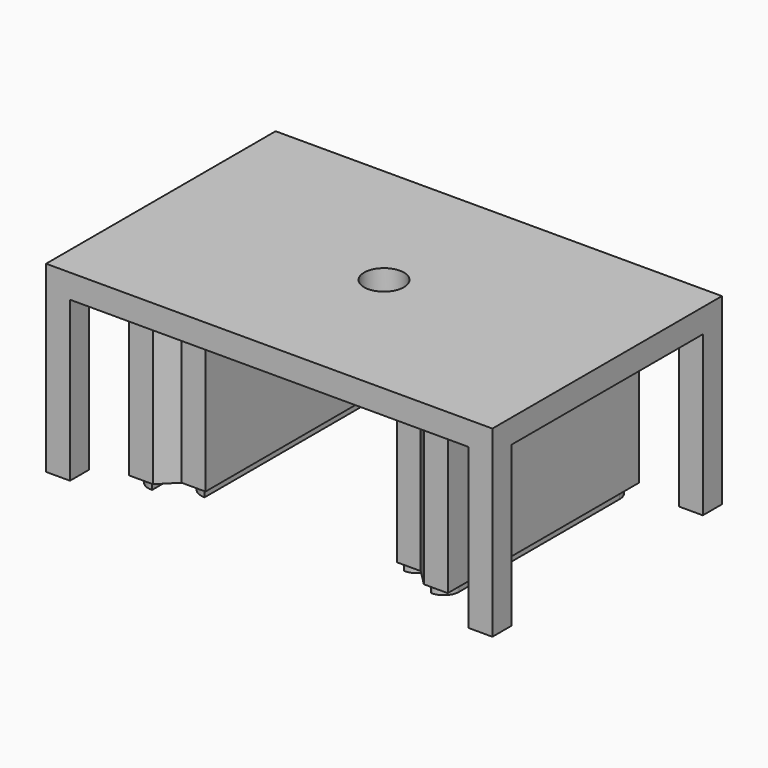
from build123d import *

# Parameters (mm, degrees)
SKETCH011_W     = 3
SKETCH011_H     = 9
SKETCH012_W     = 3
SKETCH012_H     = 3
SKETCH_W        = 70
SKETCH_H        = 50
PAD_DEPTH       = 30
POCKET_DEPTH    = 20
SKETCH002_W     = 3
SKETCH002_H     = 30
PAD001_DEPTH    = 19
SKETCH003_W     = 3
SKETCH003_H     = 26
PAD002_DEPTH    = 19
SKETCH004_W     = 2
SKETCH004_H     = 29
PAD003_DEPTH    = 1
SKETCH005_W     = 2
SKETCH005_H     = 25
PAD004_DEPTH    = 1
FILLET_R        = 1.9
SKETCH006_R     = 2.5
POCKET001_DEPTH = 12
SKETCH007_W     = 2
SKETCH007_H     = 2
SKETCH009_W     = 80
SKETCH009_H     = 80
SKETCH009_W_2   = 56
SKETCH009_H_2   = 36
POCKET002_DEPTH = 40
SKETCH010_W     = 80
SKETCH010_H     = 80
POCKET003_DEPTH = 7
SKETCH013_W     = 2
SKETCH013_H     = 2
POCKET004_DEPTH = 5
FILLET001_R     = 2
PAD005_DEPTH    = 19


with BuildPart() as loft_body:
    # Sketch011 (on Face42 of Pocket003) → Loft section 0
    with BuildSketch(Plane(origin=(0, 13, 0), x_dir=(-1, 0, 0), z_dir=(0, 1, 0))):
        with Locations((-13.5, 10.5)):
            Rectangle(SKETCH011_W, SKETCH011_H)
    # Sketch012 (on Face36 of Pocket003) → Loft section 1
    with BuildSketch(Plane(origin=(0, 18, 0), x_dir=(-1, 0, 0), z_dir=(0, 1, 0))):
        with Locations((-13.5, 10.5)):
            Rectangle(SKETCH012_W, SKETCH012_H)
    loft()


with BuildPart() as body001:
    # Sketch → Pad (new body)
    with BuildSketch(Plane.XY):
        Rectangle(SKETCH_W, SKETCH_H)
    extrude(amount=PAD_DEPTH)

    # Sketch001 (on Face5 of Pad) → Pocket (cut)
    with BuildSketch(Plane(origin=(0, 0, 0), x_dir=(1, 0, 0), z_dir=(0, 0, -1))):
        Polygon((-35, 15), (-25, 15), (-25, 25), (25, 25), (25, 15), (35, 15), (35, -15), (25, -15), (25, -25), (-25, -25), (-25, -15), (-35, -15), align=None)
    extrude(amount=-POCKET_DEPTH, mode=Mode.SUBTRACT)

    # Sketch002 (on Face4 of Pocket) → Pad001 (join)
    with BuildSketch(Plane(origin=(0, 0, 20), x_dir=(1, 0, 0), z_dir=(0, 0, -1))):
        with Locations((-18.5, 0)):
            Rectangle(SKETCH002_W, SKETCH002_H)
        with Locations((18.5, 0)):
            Rectangle(SKETCH002_W, SKETCH002_H)
    extrude(amount=PAD001_DEPTH)

    # Sketch003 (on Face4 of Pad001) → Pad002 (join)
    with BuildSketch(Plane(origin=(0, 0, 20), x_dir=(1, 0, 0), z_dir=(0, 0, -1))):
        with Locations((13.5, 0)):
            Rectangle(SKETCH003_W, SKETCH003_H)
        with Locations((-13.5, 0)):
            Rectangle(SKETCH003_W, SKETCH003_H)
    extrude(amount=PAD002_DEPTH)

    # Sketch004 (on Face36 of Pad002) → Pad003 (join)
    with BuildSketch(Plane(origin=(0, 0, 1), x_dir=(1, 0, 0), z_dir=(0, 0, -1))):
        with Locations((18.5, 0)):
            Rectangle(SKETCH004_W, SKETCH004_H)
        with Locations((-18.5, 0)):
            Rectangle(SKETCH004_W, SKETCH004_H)
    extrude(amount=PAD003_DEPTH)

    # Sketch005 (on Face37 of Pad003) → Pad004 (join)
    with BuildSketch(Plane(origin=(0, 0, 1), x_dir=(1, 0, 0), z_dir=(0, 0, -1))):
        with Locations((-13.5, 0)):
            Rectangle(SKETCH005_W, SKETCH005_H)
        with Locations((13.5, 0)):
            Rectangle(SKETCH005_W, SKETCH005_H)
    extrude(amount=PAD004_DEPTH)

    # Fillet
    fillet_edges = [body001.edges().sort_by_distance(p)[0] for p in [
        (-19.5, 14.5, 0.5),
        (-14.5, 12.5, 0.5),
        (-19.5, -14.5, 0.5),
        (-14.5, -12.5, 0.5),
        (19.5, 14.5, 0.5),
        (14.5, 12.5, 0.5),
        (14.5, -12.5, 0.5),
        (19.5, -14.5, 0.5),
    ]]
    fillet(fillet_edges, radius=FILLET_R)

    # Sketch006 (on Face13 of Fillet) → Pocket001 (cut)
    with BuildSketch(Plane(origin=(0, 0, 20), x_dir=(1, 0, 0), z_dir=(0, 0, -1))):
        Circle(SKETCH006_R)
    extrude(amount=-POCKET001_DEPTH, mode=Mode.SUBTRACT)

    # Sketch007 (on Face13 of Pocket001) → Revolution (revolve)
    with BuildSketch(Plane(origin=(0, 0, 20), x_dir=(1, 0, 0), z_dir=(0, 0, -1))):
        with Locations((-7, 3)):
            Rectangle(SKETCH007_W, SKETCH007_H)
        with Locations((7, 3)):
            Rectangle(SKETCH007_W, SKETCH007_H)
    revolve(axis=Axis((-10, 0, 20), (1, 0, 0)))

    # Sketch009 (on Face49 of Revolution) → Pocket002 (cut)
    with BuildSketch(Plane.XY.offset(30)):
        Rectangle(SKETCH009_W, SKETCH009_H)
        Rectangle(SKETCH009_W_2, SKETCH009_H_2, mode=Mode.SUBTRACT)
    extrude(amount=-POCKET002_DEPTH, mode=Mode.SUBTRACT)

    # Sketch010 (on Face47 of Pocket002) → Pocket003 (cut)
    with BuildSketch(Plane.XY.offset(30)):
        Rectangle(SKETCH010_W, SKETCH010_H)
    extrude(amount=-POCKET003_DEPTH, mode=Mode.SUBTRACT)

    # Fusion: union Loft body
    add(loft_body.part)

    # Sketch013 (on Face56 of BaseFeature) → Pocket004 (cut)
    with BuildSketch(Plane(origin=(12, 0, 0), x_dir=(0, -1, 0), z_dir=(-1, 0, 0))):
        with Locations((-15.5, 10.5)):
            Rectangle(SKETCH013_W, SKETCH013_H)
    extrude(amount=-POCKET004_DEPTH, mode=Mode.SUBTRACT)

    # Fillet001
    fillet001_edges = [body001.edges().sort_by_distance(p)[0] for p in [
        (13.5, 18, 12),
        (13.5, 18, 9),
    ]]
    fillet(fillet001_edges, radius=FILLET001_R)

    # Sketch014 (on Face16 of Fillet001) → Pad005 (join)
    with BuildSketch(Plane(origin=(0, 0, 20), x_dir=(1, 0, 0), z_dir=(0, 0, -1))):
        Polygon((-17, 15), (-15, 13), (-15, -13), (-17, -15), align=None)
        Polygon((17, -15), (15, -13), (15, 13), (17, 15), align=None)
    extrude(amount=PAD005_DEPTH)


solid = body001.part
